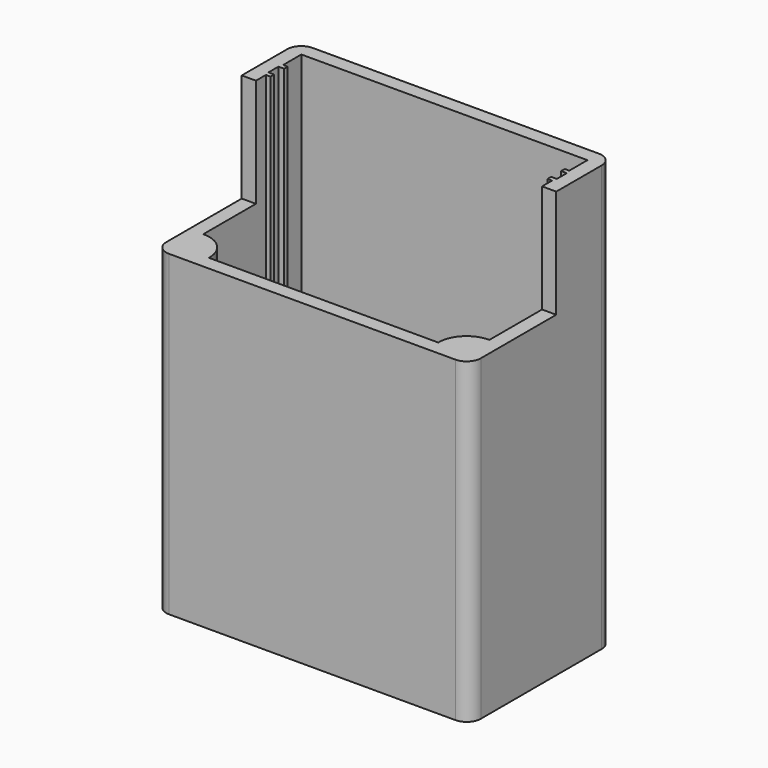
from build123d import *

# Parameters (mm, degrees)
SKETCH_W        = 55.4
SKETCH_H        = 31.6
PAD_DEPTH       = 75
SKETCH001_W     = 50.4
SKETCH001_H     = 26.6
POCKET_DEPTH    = 72.5
SKETCH002_W     = 1
SKETCH002_H     = 75
PAD001_DEPTH    = 0.8
SKETCH003_W     = 1
SKETCH003_H     = 72.5
PAD002_DEPTH    = 0.8
SKETCH004_W     = 19.1
SKETCH004_H     = 19.09362
POCKET001_DEPTH = 56
FILLET_R        = 1
FILLET001_R     = 1
SKETCH005_W     = 4
SKETCH005_H     = 2.5
POCKET002_DEPTH = 4
FILLET002_R     = 0.75
CHAMFER_SIZE    = 2
FILLET003_R     = 2.5
SKETCH006_W     = 1
SKETCH006_H     = 2.2
POCKET003_DEPTH = 72.5
SKETCH007_W     = 5
SKETCH007_H     = 5
PAD003_DEPTH    = 10
CHAMFER001_SIZE = 4.99
FILLET004_R     = 4.9


with BuildPart() as part:
    # Sketch → Pad (new body)
    with BuildSketch(Plane.XY):
        with Locations((0.5, 0)):
            Rectangle(SKETCH_W, SKETCH_H)
    extrude(amount=PAD_DEPTH)

    # Sketch001 (on Face6 of Pad) → Pocket (cut)
    with BuildSketch(Plane.XY.offset(75)):
        with Locations((0.5, 0)):
            Rectangle(SKETCH001_W, SKETCH001_H)
    extrude(amount=-POCKET_DEPTH, mode=Mode.SUBTRACT)

    # Sketch002 (on Face10 of Pocket) → Pad001 (join)
    with BuildSketch(Plane.YZ.offset(-24.7)):
        with Locations((8.8, 37.5)):
            Rectangle(SKETCH002_W, SKETCH002_H)
        with Locations((6, 37.5)):
            Rectangle(SKETCH002_W, SKETCH002_H)
    extrude(amount=PAD001_DEPTH)

    # Sketch003 (on Face10 of Pad001) → Pad002 (join)
    with BuildSketch(Plane(origin=(25.7, 0, 0), x_dir=(0, -1, 0), z_dir=(-1, 0, 0))):
        with Locations((-8.8, 38.75)):
            Rectangle(SKETCH003_W, SKETCH003_H)
        with Locations((-6, 38.75)):
            Rectangle(SKETCH003_W, SKETCH003_H)
    extrude(amount=PAD002_DEPTH)

    # Sketch004 (on Face3 of Pad002) → Pocket001 (cut)
    with BuildSketch(Plane.YZ.offset(28.2)):
        with Locations((-6.25, 65.45319)):
            Rectangle(SKETCH004_W, SKETCH004_H)
    extrude(amount=-POCKET001_DEPTH, mode=Mode.SUBTRACT)

    # Fillet
    fillet_edges = [part.edges().sort_by_distance(p)[0] for p in [
        (25.7, 11.3, 2.5),
        (0.5, 13.3, 2.5),
        (-24.7, 11.3, 2.5),
    ]]
    fillet(fillet_edges, radius=FILLET_R)

    # Fillet001
    fillet001_edges = [part.edges().sort_by_distance(p)[0] for p in [
        (0.5, -13.3, 2.5),
    ]]
    fillet(fillet001_edges, radius=FILLET001_R)

    # Sketch005 (on Face37 of Fillet001) → Pocket002 (cut)
    with BuildSketch(Plane(origin=(0, 0, 0), x_dir=(1, 0, 0), z_dir=(0, 0, -1))):
        with Locations((16.858666, -0.55)):
            Rectangle(SKETCH005_W, SKETCH005_H)
    extrude(amount=-POCKET002_DEPTH, mode=Mode.SUBTRACT)

    # Fillet002
    fillet002_edges = [part.edges().sort_by_distance(p)[0] for p in [
        (18.858666, 1.8, 1.25),
        (18.858666, -0.7, 1.25),
        (14.858666, -0.7, 1.25),
        (14.858666, 1.8, 1.25),
    ]]
    fillet(fillet002_edges, radius=FILLET002_R)

    # Chamfer
    chamfer_edges = [part.edges().sort_by_distance(p)[0] for p in [
        (16.858666, 1.8, 2.5),
    ]]
    chamfer(chamfer_edges, length=CHAMFER_SIZE)

    # Fillet003
    fillet003_edges = [part.edges().sort_by_distance(p)[0] for p in [
        (-27.2, -15.8, 27.95319),
        (-27.2, 15.8, 37.5),
        (28.2, -15.8, 27.95319),
        (28.2, 15.8, 37.5),
    ]]
    fillet(fillet003_edges, radius=FILLET003_R)

    # Sketch006 (on Face20 of Fillet003) → Pocket003 (cut)
    with BuildSketch(Plane.XY.offset(75)):
        with Locations((-24.4, 7.4)):
            Rectangle(SKETCH006_W, SKETCH006_H)
        with Locations((25.4, 7.4)):
            Rectangle(SKETCH006_W, SKETCH006_H)
    extrude(amount=-POCKET003_DEPTH, mode=Mode.SUBTRACT)

    # Sketch007 (on Face21 of Pocket003) → Pad003 (join)
    with BuildSketch(Plane.XY.offset(55.90638)):
        with Locations((23.2, -10.8)):
            Rectangle(SKETCH007_W, SKETCH007_H)
        with Locations((-22.2, -10.8)):
            Rectangle(SKETCH007_W, SKETCH007_H)
    extrude(amount=-PAD003_DEPTH)

    # Chamfer001
    chamfer001_edges = [part.edges().sort_by_distance(p)[0] for p in [
        (20.7, -10.8, 45.90638),
        (-19.7, -10.8, 45.90638),
    ]]
    chamfer(chamfer001_edges, length=CHAMFER001_SIZE)

    # Fillet004
    fillet004_edges = [part.edges().sort_by_distance(p)[0] for p in [
        (-19.7, -8.3, 53.40138),
        (20.7, -8.3, 53.40138),
    ]]
    fillet(fillet004_edges, radius=FILLET004_R)


solid = part.part
